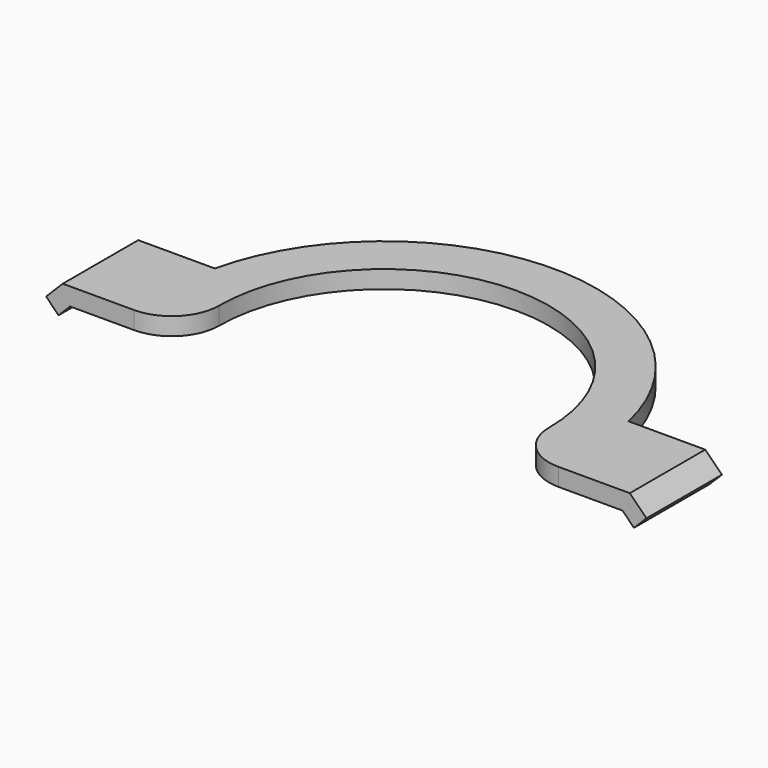
from build123d import *

# Parameters (mm, degrees)
F1_DEPTH = 9.525
F3_DEPTH = 50.8
F5_DEPTH = 50.8


with BuildPart() as f1:
    # F0 (on Top) → F1 (new body)
    with BuildSketch(Plane.XY):
        with BuildLine():
            ThreePointArc((-88.9, 0), (0, 88.9), (88.9, 0))
            ThreePointArc((88.9, 0), (96.339488, -17.960512), (114.3, -25.4))
            Line((114.3, -25.4), (152.717048, -25.4))
            Line((152.717048, -25.4), (152.717048, 25.4))
            Line((152.717048, 25.4), (111.442048, 25.4))
            ThreePointArc((111.442048, 25.4), (0, 114.3), (-111.442048, 25.4))
            Line((-111.442048, 25.4), (-152.717048, 25.4))
            Line((-152.717048, 25.4), (-152.717048, -25.4))
            Line((-152.717048, -25.4), (-114.3, -25.4))
            ThreePointArc((-114.3, -25.4), (-96.339488, -17.960512), (-88.9, 0))
        make_face()
    extrude(amount=F1_DEPTH)

    # F2 (on face) → F3 (join, through all)
    with BuildSketch(Plane.XZ.offset(25.4)):
        Polygon((161.697304, 0.544744), (152.717048, 9.525), (148.771664, 0), (154.962112, -6.190448), align=None)
    extrude(amount=-F3_DEPTH)

    # F4 (on face) → F5 (join, through all)
    with BuildSketch(Plane.XZ.offset(25.4)):
        Polygon((-148.771664, 0), (-152.717048, 9.525), (-161.697304, 0.544744), (-154.962112, -6.190448), align=None)
    extrude(amount=-F5_DEPTH)


solid = f1.part
